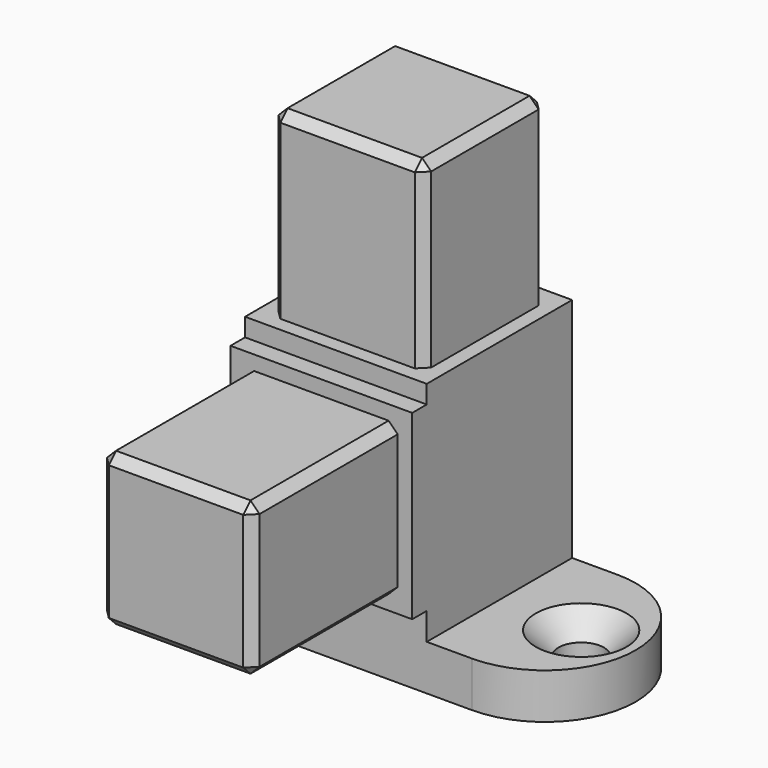
from build123d import *

# Parameters (mm, degrees)
F0_W            = 20
F0_H            = 20
F1_DEPTH        = 25
F0_W_2          = 5
F2_DEPTH        = 5
F3_W            = 16.8
F3_H            = 16.8
F4_DEPTH        = 20
F5_W            = 20
F5_H            = 20
F6_DEPTH        = 2
F7_SIZE         = 1
F8_W            = 16.8
F8_H            = 16.8
F9_DEPTH        = 20
F10_SIZE        = 1
F11_D           = 5
F11_CSINK_D     = 10
F11_CSINK_ANGLE = 90


with BuildPart() as f1:
    # F0 (on Top) → F1 (new body)
    with BuildSketch(Plane.XY):
        with Locations((15, 10)):
            Rectangle(F0_W, F0_H)
    extrude(amount=F1_DEPTH)

    # F0 (on Top) → F2 (join)
    with BuildSketch(Plane.XY):
        with Locations((2.5, 10)):
            Rectangle(F0_W_2, F0_H)
        with BuildLine():
            ThreePointArc((0, 20), (-10, 10), (0, 0))
            Line((0, 0), (0, 20))
        make_face()
        with Locations((15, 10)):
            Rectangle(F0_W, F0_H)
        with Locations((27.5, 10)):
            Rectangle(F0_W_2, F0_H)
        with BuildLine():
            Line((30, 20), (30, 0))
            ThreePointArc((30, 0), (40, 10), (30, 20))
        make_face()
    extrude(amount=-F2_DEPTH)

    # F3 (on face) → F4 (join)
    with BuildSketch(Plane.XY.offset(25)):
        with Locations((15, 10)):
            Rectangle(F3_W, F3_H)
    extrude(amount=F4_DEPTH)

    # F5 (on face) → F6 (join)
    with BuildSketch(Plane.XZ):
        with Locations((15, 13)):
            Rectangle(F5_W, F5_H)
    extrude(amount=F6_DEPTH)

    # F7
    f7_edges = [f1.edges().sort_by_distance(p)[0] for p in [
        (23.4, 18.4, 35),
        (6.6, 18.4, 35),
        (15, 18.4, 45),
        (6.6, 10, 45),
        (23.4, 10, 45),
        (15, 1.6, 45),
        (23.4, 1.6, 35),
        (6.6, 1.6, 35),
    ]]
    chamfer(f7_edges, length=F7_SIZE)

    # F8 (on face) → F9 (join)
    with BuildSketch(Plane.XZ.offset(2)):
        with Locations((15, 13)):
            Rectangle(F8_W, F8_H)
    extrude(amount=F9_DEPTH)

    # F10
    f10_edges = [f1.edges().sort_by_distance(p)[0] for p in [
        (23.4, -12, 21.4),
        (15, -22, 21.4),
        (6.6, -12, 21.4),
        (23.4, -22, 13),
        (23.4, -12, 4.6),
        (6.6, -12, 4.6),
        (6.6, -22, 13),
        (15, -22, 4.6),
    ]]
    chamfer(f10_edges, length=F10_SIZE)

    # F11 (through all)
    with Locations(Plane.XY):
        with Locations((-4, 10), (34, 10)):
            CounterSinkHole(F11_D / 2, F11_CSINK_D / 2, counter_sink_angle=F11_CSINK_ANGLE)


solid = f1.part
